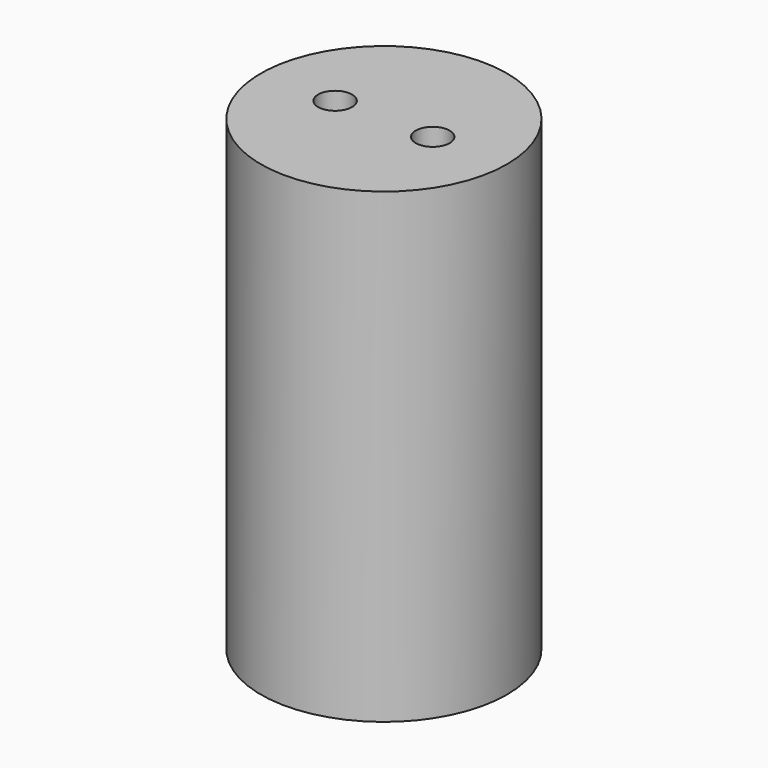
from build123d import *

# Parameters (mm, degrees)
SKETCH_R        = 2.05
PAD_DEPTH       = 7
SKETCH001_R     = 1.65
POCKET_DEPTH    = 6
SKETCH002_R     = 0.4
POCKET001_DEPTH = 1.001
SKETCH003_R     = 2.9
PAD001_DEPTH    = 11
SKETCH004_R     = 2.1
POCKET002_DEPTH = 9
SKETCH005_R     = 0.4
POCKET003_DEPTH = 11.001


with BuildPart() as obj1:
    # Sketch → Pad (new body)
    with BuildSketch(Plane.XY):
        Circle(SKETCH_R)
    extrude(amount=PAD_DEPTH)

    # Sketch001 (on Face3 of Pad) → Pocket (cut)
    with BuildSketch(Plane.XY.offset(7)):
        Circle(SKETCH001_R)
    extrude(amount=-POCKET_DEPTH, mode=Mode.SUBTRACT)

    # Sketch002 (on Face5 of Pocket) → Pocket001 (cut, through all)
    with BuildSketch(Plane.XY.offset(1)):
        with Locations((-0.9, 0)):
            Circle(SKETCH002_R)
        with Locations((0.9, 0)):
            Circle(SKETCH002_R)
    extrude(amount=-POCKET001_DEPTH, mode=Mode.SUBTRACT)


with BuildPart() as led_housing:
    # Sketch003 (on DatumPlane) → Pad001 (new body)
    with BuildSketch(Plane.XY.offset(11)):
        Circle(SKETCH003_R)
    extrude(amount=-PAD001_DEPTH)

    # Sketch004 (on Face3 of Pad001) → Pocket002 (cut)
    with BuildSketch(Plane(origin=(0, 0, 0), x_dir=(1, 0, 0), z_dir=(0, 0, -1))):
        Circle(SKETCH004_R)
    extrude(amount=-POCKET002_DEPTH, mode=Mode.SUBTRACT)

    # Sketch005 (on Face2 of Pocket002) → Pocket003 (cut, through all)
    with BuildSketch(Plane.XY.offset(11)):
        with Locations((-1.15, 0)):
            Circle(SKETCH005_R)
        with Locations((1.15, 0)):
            Circle(SKETCH005_R)
    extrude(amount=-POCKET003_DEPTH, mode=Mode.SUBTRACT)


solid = Compound([obj1.part, led_housing.part])
